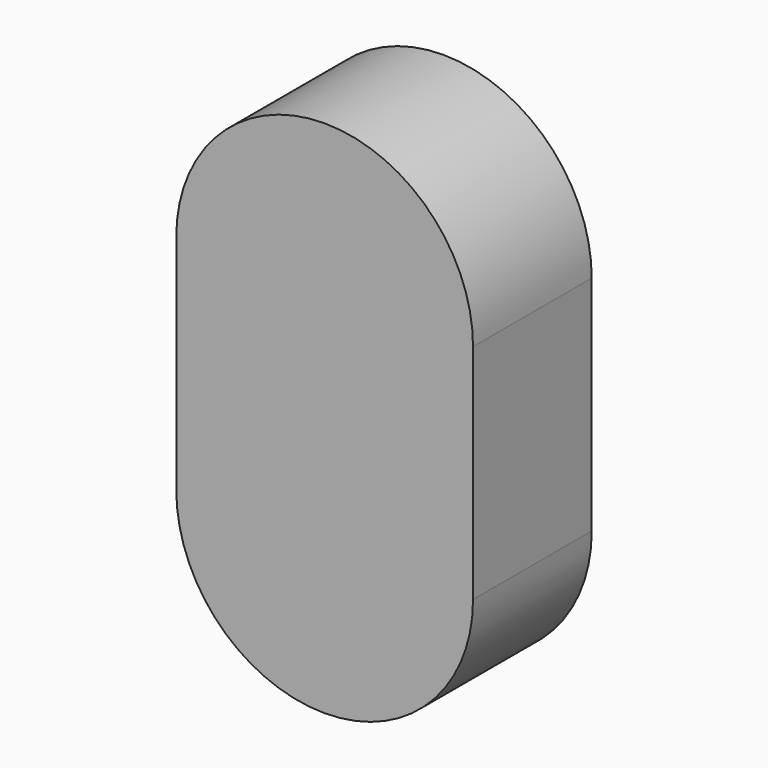
from build123d import *

# Parameters (mm, degrees)
CYLINDER076_R     = 4
CYLINDER076_DEPTH = 4
CYLINDER074_R     = 4
CYLINDER074_DEPTH = 4
BOX063048_W       = 8
BOX063048_H       = 4
BOX063048_DEPTH   = 6


with BuildPart() as cylinder076:
    # Cylinder076 → Cylinder076 (new body)
    with BuildSketch(Plane(origin=(-17, -19, 23.5), x_dir=(1, 0, 0), z_dir=(0, -1, 0))):
        Circle(CYLINDER076_R)
    extrude(amount=CYLINDER076_DEPTH)


with BuildPart() as cylinder074:
    # Cylinder074 → Cylinder074 (new body)
    with BuildSketch(Plane(origin=(-17, -19, 17.5), x_dir=(1, 0, 0), z_dir=(0, -1, 0))):
        Circle(CYLINDER074_R)
    extrude(amount=CYLINDER074_DEPTH)


with BuildPart() as bltouch_height_chamfer:
    # Box063048 → Box063048 (new body)
    with BuildSketch(Plane(origin=(-21, -23, 17.5), x_dir=(1, 0, 0), z_dir=(0, 0, 1))):
        with Locations((4, 2)):
            Rectangle(BOX063048_W, BOX063048_H)
    extrude(amount=BOX063048_DEPTH)

    # Fusion036012039011002025018: union Cylinder076, Cylinder074
    add(cylinder076.part)
    add(cylinder074.part)


solid = bltouch_height_chamfer.part
